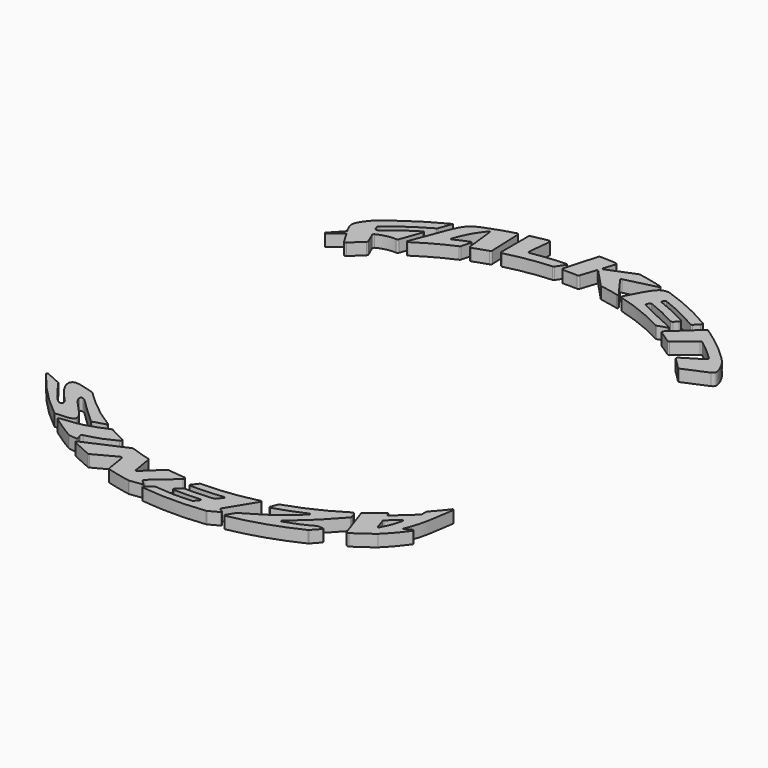
from build123d import *

# Parameters (mm, degrees)
F1_DEPTH = 2
F3_DEPTH = 2


with BuildPart() as f1:
    # F0 (on Top) → F1 (new body)
    with BuildSketch(Plane.XY):
        with BuildLine():
            ThreePointArc((26.5473532833, 28.3581093122), (27.4582275461, 27.4770826351), (28.3398792824, 26.5668133649))
            ThreePointArc((28.3398792824, 26.5668133649), (28.4973645244, 26.478335124), (28.6771044948, 26.4963224421))
            Line((28.6771044948, 26.4963224421), (32.5973681702, 28.1794866252))
            add(Edge.make_bspline(
                [(31.0981002601, 32.2813575249), (31.4402835186, 31.9296557978), (32.1412841128, 31.1525085066), (33.0599491094, 29.3843422979), (33.0908551063, 28.4427756858), (32.7474419474, 28.259593641), (32.5973681702, 28.1794866252)],
                knots=[0, 0, 0, 0, 0.2933334987, 0.6254018096, 0.836373223, 1, 1, 1, 1], degree=3))
            ThreePointArc((31.0981002601, 32.2813575249), (28.1003709599, 34.9220136211), (24.8794327818, 37.285274679))
            ThreePointArc((24.8794327818, 37.285274679), (24.6892487722, 37.3347941859), (24.5092220962, 37.2559745501))
            Line((24.5092220962, 37.2559745501), (20.4315910472, 33.4847358261))
            ThreePointArc((20.4315910472, 33.4847358261), (20.3366560562, 33.2358632202), (20.4771425834, 33.0095586418))
            ThreePointArc((20.4771425834, 33.0095586418), (21.4831145926, 32.3638705582), (22.4687431956, 31.6875355514))
            ThreePointArc((22.4687431956, 31.6875355514), (22.6516166213, 31.6324032792), (22.8307008064, 31.6988194812))
            Line((22.8307008064, 31.6988194812), (25.9636151124, 34.2277187511))
            ThreePointArc((25.9636151124, 34.2277187511), (26.1485411238, 34.2942601385), (26.3349718303, 34.2320590323))
            ThreePointArc((26.3349718303, 34.2320590323), (28.1139912099, 32.7867062259), (29.8138251931, 31.2490069322))
            ThreePointArc((29.8138251931, 31.2490069322), (29.9050576406, 31.0002583752), (29.7636019755, 30.7762282457))
            Line((29.7636019755, 30.7762282457), (26.5955120268, 28.8328390705))
            ThreePointArc((26.5955120268, 28.8328390705), (26.4539096733, 28.6073962566), (26.5473532833, 28.3581093122))
        make_face()
    extrude(amount=F1_DEPTH)


with BuildPart() as f1b:
    # F0 (on Top) → F1, piece 2 (new body)
    with BuildSketch(Plane.XY):
        with BuildLine():
            ThreePointArc((-27.762999829, 27.1691032352), (-26.841173481, 28.0801662437), (-25.8894667775, 28.9599696147))
            ThreePointArc((-25.8894667775, 28.9599696147), (-25.7963457415, 29.1194936551), (-25.8143270066, 29.3033308682))
            Line((-25.8143270066, 29.3033308682), (-26.5266235583, 30.9402086216))
            ThreePointArc((-26.5266235583, 30.9402086216), (-26.5330526202, 31.1635982641), (-26.3832601574, 31.3294490503))
            add(Edge.make_bspline(
                [(-26.3832601574, 31.3294490503), (-26.4676478673, 31.2882094997), (-27.4088107692, 30.8078679921), (-28.4535119643, 30.0345111798), (-29.4392433492, 29.230151902)],
                knots=[0.4868303234, 0.4868303234, 0.4868303234, 0.4868303234, 0.5150023749, 0.7976336827, 0.7976336827, 0.7976336827, 0.7976336827], degree=3))
            Line((-29.4392433492, 29.230151902), (-28.2345904921, 27.224463921))
            ThreePointArc((-28.2345904921, 27.224463921), (-28.0123900281, 27.0809755371), (-27.762999829, 27.1691032352))
        make_face()
        with BuildLine():
            add(Edge.make_bspline(
                [(-29.4392433492, 29.230151902), (-30.1450350456, 28.6542241108), (-30.8691416468, 28.0264647966), (-31.5932482481, 27.3987054825)],
                knots=[0.7976336827, 0.7976336827, 0.7976336827, 0.7976336827, 1, 1, 1, 1], degree=3))
            add(Edge.make_bspline(
                [(-26.3832601574, 31.3294490503), (-26.4676478673, 31.2882094997), (-27.4088107692, 30.8078679921), (-28.4535119643, 30.0345111798), (-29.4392433492, 29.230151902)],
                knots=[0.4868303234, 0.4868303234, 0.4868303234, 0.4868303234, 0.5150023749, 0.7976336827, 0.7976336827, 0.7976336827, 0.7976336827], degree=3))
            add(Edge.make_bspline(
                [(-23.3105841033, 31.9982774318), (-23.5789151686, 32.0125597614), (-24.3551664112, 32.0286347388), (-25.5353135479, 31.7438332917), (-26.3832601574, 31.3294490503)],
                knots=[0.0442724639, 0.0442724639, 0.0442724639, 0.0442724639, 0.2037512403, 0.4868303234, 0.4868303234, 0.4868303234, 0.4868303234], degree=3))
            ThreePointArc((-23.3105841033, 31.9982774318), (-23.1289712042, 32.0477448466), (-23.0125765803, 32.1956724024))
            Line((-23.0125765803, 32.1956724024), (-21.7377114938, 35.714832264))
            ThreePointArc((-21.7377114938, 35.714832264), (-21.7838786778, 35.8821158791), (-21.957016815, 35.8938803258))
            ThreePointArc((-21.957016815, 35.8938803258), (-24.4245842421, 34.2625293412), (-26.7714387963, 32.4618437097))
            ThreePointArc((-26.7714387963, 32.4618437097), (-27.0322725474, 32.4015604732), (-27.237396512, 32.5735851034))
            Line((-27.237396512, 32.5735851034), (-27.4501396738, 33.0624749456))
            ThreePointArc((-27.4501396738, 33.0624749456), (-27.4666646868, 33.2526381698), (-27.3651364457, 33.4142771013))
            ThreePointArc((-27.3651364457, 33.4142771013), (-24.3274711502, 35.6866747447), (-21.102120542, 37.6837513462))
            ThreePointArc((-21.102120542, 37.6837513462), (-21.0200082277, 37.7513373639), (-20.9666352899, 37.8433244906))
            Line((-20.9666352899, 37.8433244906), (-20.1757696644, 40.0264437827))
            ThreePointArc((-20.1757696644, 40.0264437827), (-24.7902532423, 37.3446278281), (-29.053267131, 34.1333495639))
            add(Edge.make_bspline(
                [(-30.0712297066, 30.2823782209), (-30.2768548387, 30.7288172116), (-30.688157594, 31.6183899209), (-30.0455886032, 32.9442767829), (-29.4035461755, 33.7388064708), (-29.053267131, 34.1333495639)],
                knots=[0, 0, 0, 0, 0.3285202685, 0.651688533, 1, 1, 1, 1], degree=3))
            Line((-30.0712297066, 30.2823782209), (-29.7531671484, 29.7528196461))
            Line((-29.7531671484, 29.7528196461), (-31.7605539053, 27.5997907218))
            Line((-31.7605539053, 27.5997907218), (-31.5932482481, 27.3987054825))
        make_face()
    extrude(amount=F1_DEPTH)


with BuildPart() as f1c:
    # F0 (on Top) → F1, piece 3 (new body)
    with BuildSketch(Plane.XY):
        with BuildLine():
            ThreePointArc((-21.5865439003, 32.2949756549), (-18.6685486267, 34.0650792203), (-15.6064456082, 35.5722249176))
            ThreePointArc((-15.6064456082, 35.5722249176), (-15.5002898392, 35.6504429099), (-15.4379271491, 35.7666237882))
            Line((-15.4379271491, 35.7666237882), (-14.9971107719, 37.3528948363))
            ThreePointArc((-14.9971107719, 37.3528948363), (-15.0417644948, 37.5049770004), (-15.1979301298, 37.5320922004))
            ThreePointArc((-15.1979301298, 37.5320922004), (-16.3880946707, 37.0279320938), (-17.5615618301, 36.4860429234))
            ThreePointArc((-17.5615618301, 36.4860429234), (-17.7276330046, 36.5103197847), (-17.76723247, 36.6734175569))
            add(Edge.make_bspline(
                [(-15.2460992726, 41.2827250047), (-15.7667577189, 40.5896449193), (-16.7893966623, 39.1712783413), (-17.4516215673, 37.5233885019), (-17.76723247, 36.6734175569)],
                knots=[0.0626606532, 0.0626606532, 0.0626606532, 0.0626606532, 0.4963820199, 0.9393072103, 0.9393072103, 0.9393072103, 0.9393072103], degree=3))
            ThreePointArc((-15.2460992726, 41.2827250047), (-15.0868407487, 41.3373833763), (-14.9771382222, 41.2096486093))
            Line((-14.9771382222, 41.2096486093), (-14.4358064161, 36.4689185691))
            ThreePointArc((-14.4358064161, 36.4689185691), (-14.2929591614, 36.2462280188), (-14.0293946427, 36.2232027307))
            ThreePointArc((-14.0293946427, 36.2232027307), (-12.850960216, 36.6578388839), (-11.6590899828, 37.0541489024))
            ThreePointArc((-11.6590899828, 37.0541489024), (-11.5039958375, 37.1673783267), (-11.449340035, 37.3514648273))
            Line((-11.449340035, 37.3514648273), (-11.655654036, 42.8998508429))
            ThreePointArc((-11.655654036, 42.8998508429), (-11.7784883571, 43.1309544954), (-12.0360021846, 43.1776856125))
            ThreePointArc((-12.0360021846, 43.1776856125), (-14.5852334842, 42.3845354775), (-17.0827228781, 41.4410239075))
            add(Edge.make_bspline(
                [(-21.8102313016, 32.4726648138), (-21.0902597427, 34.3796053295), (-19.8475733675, 37.684586252), (-18.6800928553, 40.5334365594), (-17.5710488372, 41.1866529421), (-17.0827228781, 41.4410239075)],
                knots=[0.0323151371, 0.0323151371, 0.0323151371, 0.0323151371, 0.4504457191, 0.7646007457, 1, 1, 1, 1], degree=3))
            ThreePointArc((-21.8102313016, 32.4726648138), (-21.7632001188, 32.3022297548), (-21.5865439003, 32.2949756549))
        make_face()
    extrude(amount=F1_DEPTH)


with BuildPart() as f1d:
    # F0 (on Top) → F1, piece 4 (new body)
    with BuildSketch(Plane.XY):
        with BuildLine():
            ThreePointArc((-9.9044199132, 37.5612406117), (-6.2199218275, 38.3439291488), (-2.4769397791, 38.766081817))
            ThreePointArc((-2.4769397791, 38.766081817), (-2.3484827904, 38.8042850269), (-2.2494785948, 38.8946113931))
            Line((-2.2494785948, 38.8946113931), (-1.3234436385, 40.2310948395))
            ThreePointArc((-1.3234436385, 40.2310948395), (-1.3151276965, 40.3884865258), (-1.4521181179, 40.4664283135))
            ThreePointArc((-1.4521181179, 40.4664283135), (-4.3071203503, 40.2627517908), (-7.1406019027, 39.8579009977))
            ThreePointArc((-7.1406019027, 39.8579009977), (-7.3978836029, 39.9335876065), (-7.4918388504, 40.184774285))
            Line((-7.4918388504, 40.184774285), (-7.1014831527, 43.8730523943))
            ThreePointArc((-7.1014831527, 43.8730523943), (-7.1943104201, 44.1231839038), (-7.4496766016, 44.2004547711))
            ThreePointArc((-7.4496766016, 44.2004547711), (-8.7527429974, 43.9609755745), (-10.0481624979, 43.6830895639))
            ThreePointArc((-10.0481624979, 43.6830895639), (-10.2156190858, 43.5775730162), (-10.2809115036, 43.3907245459))
            Line((-10.2809115036, 43.3907245459), (-10.2809115036, 37.8513251453))
            ThreePointArc((-10.2809115036, 37.8513251453), (-10.1640132825, 37.6136831066), (-9.9044199132, 37.5612406117))
        make_face()
    extrude(amount=F1_DEPTH)


with BuildPart() as f1e:
    # F0 (on Top) → F1, piece 5 (new body)
    with BuildSketch(Plane.XY):
        with BuildLine():
            ThreePointArc((-0.7466719061, 38.8379558058), (0.4319405097, 38.8427310768), (1.6101552765, 38.8117473208))
            ThreePointArc((1.6101552765, 38.8117473208), (1.7933872682, 38.8648552387), (1.9075520434, 39.0176976995))
            Line((1.9075520434, 39.0176976995), (2.7224591457, 41.4935777314))
            ThreePointArc((2.7224591457, 41.4935777314), (2.8325137414, 41.5931350452), (2.9743080644, 41.5493395805))
            Line((2.9743080644, 41.5493395805), (5.8710763414, 38.4632194255))
            ThreePointArc((5.8710763414, 38.4632194255), (5.9495201827, 38.4033594272), (6.0431415681, 38.3721874552))
            ThreePointArc((6.0431415681, 38.3721874552), (7.5782598652, 38.0987441726), (9.1011673251, 37.7639124487))
            ThreePointArc((9.1011673251, 37.7639124487), (9.2610647644, 37.8264511329), (9.2575170816, 37.99810687))
            Line((9.2575170816, 37.99810687), (6.8031192843, 41.3645047408))
            ThreePointArc((6.8031192843, 41.3645047408), (6.7833644462, 41.5041590108), (6.8882410918, 41.598469445))
            Line((6.8882410918, 41.598469445), (12.059064719, 42.8799921014))
            ThreePointArc((12.059064719, 42.8799921014), (12.1729644482, 43.0233714471), (12.0633500013, 43.1700529323))
            ThreePointArc((12.0633500013, 43.1700529323), (10.0065845529, 43.692632663), (7.9273903341, 44.1172796751))
            ThreePointArc((7.9273903341, 44.1172796751), (7.8432680386, 44.1203959204), (7.7615917149, 44.1000182434))
            Line((7.7615917149, 44.1000182434), (3.2363686489, 42.264897229))
            ThreePointArc((3.2363686489, 42.264897229), (3.0775600476, 42.2943278175), (3.0375170269, 42.4507979037))
            Line((3.0375170269, 42.4507979037), (3.6471266509, 44.3029357619))
            ThreePointArc((3.6471266509, 44.3029357619), (3.6116773532, 44.5632917178), (3.3848192112, 44.6958709765))
            ThreePointArc((3.3848192112, 44.6958709765), (2.0932189801, 44.774951901), (0.7998742226, 44.8167165761))
            ThreePointArc((0.7998742226, 44.8167165761), (0.6162164478, 44.7580267915), (0.5062076093, 44.5996831005))
            Line((0.5062076093, 44.5996831005), (-1.040751598, 39.2208191341))
            ThreePointArc((-1.040751598, 39.2208191341), (-0.9903548743, 38.9551552896), (-0.7466719061, 38.8379558058))
        make_face()
    extrude(amount=F1_DEPTH)


with BuildPart() as f1f:
    # F0 (on Top) → F1, piece 6 (new body)
    with BuildSketch(Plane.XY):
        with BuildLine():
            ThreePointArc((10.1970741592, 37.4828495275), (14.4310808982, 36.0650555832), (18.4744167343, 34.1707514761))
            ThreePointArc((18.4744167343, 34.1707514761), (18.589378803, 34.1359343277), (18.708784115, 34.1490065327))
            Line((18.708784115, 34.1490065327), (20.1387180891, 34.6080049841))
            ThreePointArc((20.1387180891, 34.6080049841), (20.242714678, 34.7439345887), (20.1516365662, 34.8888377477))
            add(Edge.make_bspline(
                [(20.1516365662, 34.8888377477), (18.9542126278, 35.3986889343), (16.8004637845, 36.4049548325), (14.7834996687, 37.383504279), (13.8984129971, 37.8670263978)],
                knots=[0.0488696267, 0.0488696267, 0.0488696267, 0.0488696267, 0.523945873, 0.9744418223, 0.9744418223, 0.9744418223, 0.9744418223], degree=3))
            ThreePointArc((13.8984129971, 37.8670263978), (13.814284528, 37.9695446818), (13.8248872297, 38.1017384055))
            Line((13.8248872297, 38.1017384055), (14.0431799453, 38.5383260572))
            ThreePointArc((14.0431799453, 38.5383260572), (14.137489648, 38.6242391204), (14.2650643086, 38.6245227159))
            add(Edge.make_bspline(
                [(19.3359186819, 36.2766117131), (18.502853332, 36.7304570332), (16.8430994677, 37.5972056296), (15.1220331412, 38.2959887351), (14.2650643086, 38.6245227159)],
                knots=[0.0363138868, 0.0363138868, 0.0363138868, 0.0363138868, 0.5039758893, 0.9726273638, 0.9726273638, 0.9726273638, 0.9726273638], degree=3))
            ThreePointArc((19.3359186819, 36.2766117131), (19.5203481762, 36.2428563097), (19.6887988116, 36.3251852173))
            Line((19.6887988116, 36.3251852173), (20.2554287601, 36.8772867232))
            ThreePointArc((20.2554287601, 36.8772867232), (20.3430107389, 37.134884243), (20.1863514541, 37.3573363809))
            add(Edge.make_bspline(
                [(20.1863514541, 37.3573363809), (19.2621332699, 37.8462531286), (17.473539024, 38.7807856196), (15.8376674941, 39.4392548711), (15.0455915624, 39.7541801145)],
                knots=[0.0608804493, 0.0608804493, 0.0608804493, 0.0608804493, 0.5248873881, 0.9634225516, 0.9634225516, 0.9634225516, 0.9634225516], degree=3))
            ThreePointArc((15.0455915624, 39.7541801145), (14.942591447, 39.8639423823), (14.9611861862, 40.0133111036))
            Line((14.9611861862, 40.0133111036), (15.1405068255, 40.297692314))
            ThreePointArc((15.1405068255, 40.297692314), (15.2342369659, 40.3712354285), (15.3533501524, 40.3687904945))
            ThreePointArc((15.3533501524, 40.3687904945), (18.6860272471, 38.9383742932), (21.8869477481, 37.2334006651))
            ThreePointArc((21.8869477481, 37.2334006651), (22.0774894426, 37.1945090108), (22.2518475321, 37.2806365599))
            Line((22.2518475321, 37.2806365599), (23.0033280079, 38.0373832637))
            ThreePointArc((23.0033280079, 38.0373832637), (23.088087199, 38.286403258), (22.9440177885, 38.5064920651))
            ThreePointArc((22.9440177885, 38.5064920651), (18.6257828144, 40.7707995751), (14.0871522904, 42.552673521))
            add(Edge.make_bspline(
                [(10.0085770498, 37.9086299551), (10.5478556391, 38.9660049187), (11.5040698788, 40.8137661903), (12.6146507969, 42.3476410039), (13.4983983359, 42.5508114295), (13.9056985036, 42.5688336221), (14.0871522904, 42.552673521)],
                knots=[0.0367311905, 0.0367311905, 0.0367311905, 0.0367311905, 0.3896962858, 0.66482844, 0.8470269389, 1, 1, 1, 1], degree=3))
            ThreePointArc((10.0085770498, 37.9086299551), (10.0015061174, 37.6508846253), (10.1970741592, 37.4828495275))
        make_face()
    extrude(amount=F1_DEPTH)


with BuildPart() as f3:
    # F2 (on Top) → F3 (new body)
    with BuildSketch(Plane.XY):
        with BuildLine():
            ThreePointArc((-20.1317080422, -32.5500890015), (-23.8315014501, -29.9475124398), (-27.1983898622, -26.9265956185))
            ThreePointArc((-27.1983898622, -26.9265956185), (-27.2568474324, -26.8806452454), (-27.3248105394, -26.8504833426))
            add(Edge.make_bspline(
                [(-27.3248105394, -26.8504833426), (-28.1274615826, -26.6079523765), (-29.5175025746, -26.1906597977), (-30.8653966207, -25.9954442551), (-31.4230696327, -26.5561917717), (-31.3021732535, -27.611952944), (-30.0144885381, -29.5849223983), (-28.6251044701, -30.8384018372), (-28.3123646067, -31.4279188361), (-28.3746261005, -31.8293795015), (-29.1460513462, -31.9433971905), (-30.8730050198, -29.707266778), (-31.9026936645, -28.2825113194), (-32.4140046741, -27.5740869206)],
                knots=[0.0036163809, 0.0036163809, 0.0036163809, 0.0036163809, 0.1228794116, 0.2110350793, 0.2721717201, 0.3480792723, 0.470188104, 0.5787089334, 0.6392988035, 0.6823618259, 0.7384896659, 0.867432935, 0.99605134, 0.99605134, 0.99605134, 0.99605134], degree=3))
            ThreePointArc((-32.4140046741, -27.5740869206), (-32.4677900414, -27.5170650147), (-32.5345107948, -27.4759225238))
            Line((-32.5345107948, -27.4759225238), (-35.094150829, -26.3281106981))
            ThreePointArc((-35.094150829, -26.3281106981), (-35.272770499, -26.3714174583), (-35.2753653543, -26.555193759))
            ThreePointArc((-35.2753653543, -26.555193759), (-31.6487060925, -30.7878079624), (-27.5176934589, -34.5297880555))
            ThreePointArc((-27.5176934589, -34.5297880555), (-27.4257519989, -34.5797280968), (-27.3222518349, -34.5950563656))
            add(Edge.make_bspline(
                [(-27.3222518349, -34.5950563656), (-26.6166561304, -34.5751196543), (-25.4093050129, -34.5261655196), (-24.3000294453, -34.2389796363), (-24.2483387254, -33.2353603941), (-25.883461408, -31.4386536129), (-27.5516915325, -29.7938915868), (-27.6339592507, -28.8589068797), (-26.8490060786, -28.93397863), (-25.6262552877, -30.3164001264), (-23.6042334522, -32.1746660791), (-22.3475015168, -33.3269873409)],
                knots=[0.0062321645, 0.0062321645, 0.0062321645, 0.0062321645, 0.1267045448, 0.2135413186, 0.2876724803, 0.4250648141, 0.5622004983, 0.6308527305, 0.6922157657, 0.8081230809, 0.9937967198, 0.9937967198, 0.9937967198, 0.9937967198], degree=3))
            ThreePointArc((-22.3475015168, -33.3269873409), (-22.2114535293, -33.3983601627), (-22.0579130737, -33.393025084))
            Line((-22.0579130737, -33.393025084), (-20.167188868, -32.821239045))
            ThreePointArc((-20.167188868, -32.821239045), (-20.0618771734, -32.6971229976), (-20.1317080422, -32.5500890015))
        make_face()
    extrude(amount=F3_DEPTH)


with BuildPart() as f3b:
    # F2 (on Top) → F3, piece 2 (new body)
    with BuildSketch(Plane.XY):
        with BuildLine():
            ThreePointArc((4.0495048595, -40.4787311143), (1.6355107135, -40.6478937577), (-0.7842707143, -40.6732231533))
            ThreePointArc((-0.7842707143, -40.6732231533), (-0.9041976355, -40.6957303759), (-1.0052413932, -40.7641350578))
            Line((-1.0052413932, -40.7641350578), (-1.7654800977, -41.5467582104))
            ThreePointArc((-1.7654800977, -41.5467582104), (-1.7971828418, -41.7069209871), (-1.6638524292, -41.8011556948))
            ThreePointArc((-1.6638524292, -41.8011556948), (0.5697551726, -41.8303765387), (2.8017383024, -41.7403316328))
            ThreePointArc((2.8017383024, -41.7403316328), (2.9451414818, -41.8213230061), (2.92778048, -41.9850992866))
            Line((2.92778048, -41.9850992866), (2.3699734083, -42.665441637))
            ThreePointArc((2.3699734083, -42.665441637), (2.2746108579, -42.7423136946), (2.1564715699, -42.7746623864))
            add(Edge.make_bspline(
                [(-3.9314589642, -42.6323771121), (-2.7773341671, -42.7399950959), (-0.6027029912, -42.937849969), (1.2756850245, -42.8290539997), (2.1564715699, -42.7746623864)],
                knots=[0.0175194143, 0.0175194143, 0.0175194143, 0.0175194143, 0.5258714905, 0.9776708469, 0.9776708469, 0.9776708469, 0.9776708469], degree=3))
            ThreePointArc((-3.9314589642, -42.6323771121), (-4.0442676859, -42.6433617695), (-4.1449499635, -42.6954151016))
            Line((-4.1449499635, -42.6954151016), (-5.2682261382, -43.5802370209))
            ThreePointArc((-5.2682261382, -43.5802370209), (-5.3197848284, -43.7387530031), (-5.1930492235, -43.8470290467))
            ThreePointArc((-5.1930492235, -43.8470290467), (0.1167790405, -44.1533246666), (5.4249128156, -43.818946101))
            ThreePointArc((5.4249128156, -43.818946101), (5.4797594413, -43.8068586983), (5.5313920153, -43.7847603962))
            Line((5.5313920153, -43.7847603962), (7.134978594, -42.9125784943))
            ThreePointArc((7.134978594, -42.9125784943), (7.2132597782, -42.7846603465), (7.1416504478, -42.6528912296))
            Line((7.1416504478, -42.6528912296), (6.68216154, -42.3714820498))
            ThreePointArc((6.68216154, -42.3714820498), (6.5471513464, -42.1857590651), (6.5830107049, -41.9589664599))
            Line((6.5830107049, -41.9589664599), (9.3956075653, -37.3665183368))
            ThreePointArc((9.3956075653, -37.3665183368), (9.3886788072, -37.1995095631), (9.2315103603, -37.1426059824))
            ThreePointArc((9.2315103603, -37.1426059824), (4.7222558785, -37.9801824919), (0.1451882899, -38.272351418))
            ThreePointArc((0.1451882899, -38.272351418), (0.0144567635, -38.302886066), (-0.0898670043, -38.3873825051))
            Line((-0.0898670043, -38.3873825051), (-0.8184391676, -39.3177329493))
            ThreePointArc((-0.8184391676, -39.3177329493), (-0.8357770954, -39.474694757), (-0.7030076578, -39.5601926474))
            ThreePointArc((-0.7030076578, -39.5601926474), (2.0624929622, -39.5126458852), (4.8179146523, -39.2720098858))
            ThreePointArc((4.8179146523, -39.2720098858), (4.9675967354, -39.3485777655), (4.9521761346, -39.5159981086))
            Line((4.9521761346, -39.5159981086), (4.2516344811, -40.3704300069))
            ThreePointArc((4.2516344811, -40.3704300069), (4.1613259216, -40.444655674), (4.0495048595, -40.4787311143))
        make_face()
    extrude(amount=F3_DEPTH)


with BuildPart() as f3c:
    # F2 (on Top) → F3, piece 3 (new body)
    with BuildSketch(Plane.XY):
        with BuildLine():
            ThreePointArc((30.3497449688, -23.3170955101), (29.2904635618, -24.6345835572), (28.1740356838, -25.9040088787))
            ThreePointArc((28.1740356838, -25.9040088787), (28.1447013418, -25.9510499814), (28.1344567786, -26.0055331705))
            Line((28.1344567786, -26.0055331705), (28.1344567786, -26.9587527846))
            ThreePointArc((28.1344567786, -26.9587527846), (28.1216405539, -27.0194208306), (28.0853819546, -27.0697217391))
            Line((28.0853819546, -27.0697217391), (24.9633754066, -29.9091560793))
            ThreePointArc((24.9633754066, -29.9091560793), (24.8237489144, -29.9431085108), (24.719638749, -29.8440661038))
            Line((24.719638749, -29.8440661038), (24.6294399766, -29.5632965531))
            ThreePointArc((24.6294399766, -29.5632965531), (24.5287279141, -29.4652045666), (24.3910339305, -29.493582802))
            ThreePointArc((24.3910339305, -29.493582802), (23.1502575897, -30.4771969878), (21.8698591416, -31.4086488698))
            ThreePointArc((21.8698591416, -31.4086488698), (21.7560946054, -31.5617550549), (21.7576230597, -31.7524945039))
            Line((21.7576230597, -31.7524945039), (23.5358951901, -36.9182447611))
            ThreePointArc((23.5358951901, -36.9182447611), (23.7216274247, -37.1041616438), (23.9825068723, -37.0724841436))
            ThreePointArc((23.9825068723, -37.0724841436), (25.5707786989, -35.9953468269), (27.1107450873, -34.850211151))
            add(Edge.make_bspline(
                [(30.1271428147, -31.3375281179), (29.7500097738, -31.8595724417), (28.8354949028, -33.0765628693), (27.7539307631, -34.2165783638), (27.1107450873, -34.850211151)],
                knots=[0.1227823541, 0.1227823541, 0.1227823541, 0.1227823541, 0.4945575154, 1, 1, 1, 1], degree=3))
            ThreePointArc((30.1271428147, -31.3375281179), (30.1186661199, -31.1511740032), (29.9352411974, -31.1171885919))
            Line((29.9352411974, -31.1171885919), (28.7343853812, -31.7544184144))
            add(Edge.make_bspline(
                [(30.6173644716, -23.4284023054), (30.3632644616, -25.3247361947), (29.8855165429, -28.7092428509), (29.0916812787, -30.8092989023), (28.7343853812, -31.7544184144)],
                knots=[0.0517052209, 0.0517052209, 0.0517052209, 0.0517052209, 0.5732144209, 1, 1, 1, 1], degree=3))
            ThreePointArc((30.6173644716, -23.4284023054), (30.5262967288, -23.2699825397), (30.3497449688, -23.3170955101))
        make_face()
        with BuildLine():
            ThreePointArc((25.2749643047, -31.5726761797), (25.2728599327, -31.4573177475), (25.3348260924, -31.3599925642))
            Line((25.3348260924, -31.3599925642), (27.1119856556, -29.8286618145))
            ThreePointArc((27.1119856556, -29.8286618145), (27.2866738103, -29.8134316486), (27.3564459797, -29.9743035036))
            add(Edge.make_bspline(
                [(27.3564459797, -29.9743035036), (27.2445724286, -30.4865052138), (26.9833207848, -31.5587184579), (26.420278991, -32.6893789885), (26.0998609371, -33.3050485238)],
                knots=[0.1049811398, 0.1049811398, 0.1049811398, 0.1049811398, 0.4792778537, 0.9235804944, 0.9235804944, 0.9235804944, 0.9235804944], degree=3))
            ThreePointArc((26.0998609371, -33.3050485238), (25.9541406705, -33.3852643579), (25.8239908188, -33.2816786818))
            Line((25.8239908188, -33.2816786818), (25.2749643047, -31.5726761797))
        make_face(mode=Mode.SUBTRACT)
    extrude(amount=F3_DEPTH)


with BuildPart() as f3d:
    # F2 (on Top) → F3, piece 4 (new body)
    with BuildSketch(Plane.XY):
        with BuildLine():
            ThreePointArc((20.6616478368, -32.2163044338), (16.3906110661, -34.5852834538), (11.852657144, -36.3910494672))
            ThreePointArc((11.852657144, -36.3910494672), (11.7385840155, -36.4591390257), (11.6650993947, -36.5698136711))
            Line((11.6650993947, -36.5698136711), (11.2408473539, -37.6872055522))
            ThreePointArc((11.2408473539, -37.6872055522), (11.2713912995, -37.8427644835), (11.4244524444, -37.8840415916))
            ThreePointArc((11.4244524444, -37.8840415916), (13.9680563294, -37.0204830705), (16.4472043894, -35.9863269221))
            ThreePointArc((16.4472043894, -35.9863269221), (16.6319649239, -36.0359412507), (16.6177197565, -36.2267162803))
            add(Edge.make_bspline(
                [(8.9756469316, -41.7689782608), (10.3005505215, -41.012361274), (12.9333368731, -39.5164137372), (15.9667827034, -36.8931915628), (16.5934899054, -36.2519036897), (16.6177197565, -36.2267162803)],
                knots=[0.0070095737, 0.0070095737, 0.0070095737, 0.0070095737, 0.4227073661, 0.831986091, 0.8494191129, 0.8494191129, 0.8494191129, 0.8494191129], degree=3))
            ThreePointArc((8.9756469316, -41.7689782608), (8.9154340947, -41.8142577492), (8.868400805, -41.8731108499))
            Line((8.868400805, -41.8731108499), (8.0874999779, -43.1515633568))
            ThreePointArc((8.0874999779, -43.1515633568), (8.0921449489, -43.3150840814), (8.2435141909, -43.3771159742))
            ThreePointArc((8.2435141909, -43.3771159742), (13.8720933847, -41.9177139356), (19.2600884062, -39.7313316042))
            ThreePointArc((19.2600884062, -39.7313316042), (19.3091753098, -39.701415881), (19.3516551287, -39.6626868274))
            Line((19.3516551287, -39.6626868274), (20.545708853, -38.3433608643))
            ThreePointArc((20.545708853, -38.3433608643), (20.5716041016, -38.1818712342), (20.4344943339, -38.0927063525))
            Line((20.4344943339, -38.0927063525), (19.5573609087, -38.0927063525))
            ThreePointArc((19.5573609087, -38.0927063525), (19.4818447858, -38.1023663532), (19.4111919015, -38.1307242513))
            add(Edge.make_bspline(
                [(15.0819049966, -40.0028661908), (15.9019293444, -39.7331865648), (17.5469858863, -39.1646915875), (18.7800361564, -38.4828681886), (19.4111919015, -38.1307242513)],
                knots=[0.1231565508, 0.1231565508, 0.1231565508, 0.1231565508, 0.5407379015, 0.9840477078, 0.9840477078, 0.9840477078, 0.9840477078], degree=3))
            add(Edge.make_bspline(
                [(14.3525190651, -40.2404181659), (14.5962878443, -40.1614102529), (14.8400566235, -40.0824023399), (15.0819049966, -40.0028661908)],
                knots=[0, 0, 0, 0, 0.1231565508, 0.1231565508, 0.1231565508, 0.1231565508], degree=3))
            add(Edge.make_bspline(
                [(14.9381678856, -39.7458530407), (14.7431866048, -39.910792398), (14.5478420164, -40.0755951186), (14.3525190651, -40.2404181659)],
                knots=[0.9279452083, 0.9279452083, 0.9279452083, 0.9279452083, 1, 1, 1, 1], degree=3))
            add(Edge.make_bspline(
                [(21.3589294465, -33.4788988752), (20.3988161324, -34.5647608364), (18.4604098531, -36.7335676656), (16.12476097, -38.7420853968), (14.9381678856, -39.7458530407)],
                knots=[0.0549129673, 0.0549129673, 0.0549129673, 0.0549129673, 0.4894430237, 0.9279452083, 0.9279452083, 0.9279452083, 0.9279452083], degree=3))
            ThreePointArc((21.3589294465, -33.4788988752), (21.429378804, -33.3336565395), (21.4143578276, -33.1729306289))
            Line((21.4143578276, -33.1729306289), (21.1037784433, -32.3615828119))
            ThreePointArc((21.1037784433, -32.3615828119), (20.9172541685, -32.1838237415), (20.6616478368, -32.2163044338))
        make_face()
        with BuildLine():
            ThreePointArc((15.0819049966, -40.0028661908), (14.90412669, -39.933590677), (14.9381678856, -39.7458530407))
            add(Edge.make_bspline(
                [(14.9381678856, -39.7458530407), (14.7431866048, -39.910792398), (14.5478420164, -40.0755951186), (14.3525190651, -40.2404181659)],
                knots=[0.9279452083, 0.9279452083, 0.9279452083, 0.9279452083, 1, 1, 1, 1], degree=3))
            add(Edge.make_bspline(
                [(14.3525190651, -40.2404181659), (14.5962878443, -40.1614102529), (14.8400566235, -40.0824023399), (15.0819049966, -40.0028661908)],
                knots=[0, 0, 0, 0, 0.1231565508, 0.1231565508, 0.1231565508, 0.1231565508], degree=3))
        make_face()
    extrude(amount=F3_DEPTH)


with BuildPart() as f3e:
    # F2 (on Top) → F3, piece 5 (new body)
    with BuildSketch(Plane.XY):
        with BuildLine():
            ThreePointArc((-2.7730580116, -38.1720331128), (-4.1903746494, -38.0425383354), (-5.6018967278, -37.8604373423))
            ThreePointArc((-5.6018967278, -37.8604373423), (-5.7359357548, -37.8710650957), (-5.851869547, -37.9391735807))
            Line((-5.851869547, -37.9391735807), (-8.7451273507, -40.6735853836))
            ThreePointArc((-8.7451273507, -40.6735853836), (-8.8956146014, -40.7068641656), (-8.996001123, -40.5899178693))
            Line((-8.996001123, -40.5899178693), (-9.5705847761, -37.2387679607))
            ThreePointArc((-9.5705847761, -37.2387679607), (-9.64492623, -37.0869640221), (-9.7895346995, -36.9994455778))
            ThreePointArc((-9.7895346995, -36.9994455778), (-11.427578862, -36.5267628466), (-13.0429470691, -35.9815993871))
            ThreePointArc((-13.0429470691, -35.9815993871), (-13.1552705997, -35.9638107743), (-13.2661447157, -35.9891078233))
            Line((-13.2661447157, -35.9891078233), (-20.1400433989, -39.0177753593))
            ThreePointArc((-20.1400433989, -39.0177753593), (-20.2294982388, -39.1506296975), (-20.1480107925, -39.2885145757))
            ThreePointArc((-20.1480107925, -39.2885145757), (-18.5145462087, -40.0841776159), (-16.8497295424, -40.8119630844))
            ThreePointArc((-16.8497295424, -40.8119630844), (-16.720212204, -40.8342901069), (-16.593579911, -40.7991119993))
            Line((-16.593579911, -40.7991119993), (-12.9964169969, -38.8720949109))
            ThreePointArc((-12.9964169969, -38.8720949109), (-12.7211123137, -38.867950513), (-12.558377019, -39.0900474928))
            Line((-12.558377019, -39.0900474928), (-12.0557875201, -42.2939049112))
            ThreePointArc((-12.0557875201, -42.2939049112), (-11.9834713755, -42.4469052913), (-11.8398576917, -42.5364254057))
            ThreePointArc((-11.8398576917, -42.5364254057), (-9.8828900829, -43.0332220507), (-7.9052570341, -43.440034849))
            ThreePointArc((-7.9052570341, -43.440034849), (-7.8565466082, -43.4448406349), (-7.807703037, -43.441661527))
            Line((-7.807703037, -43.441661527), (-5.9471560366, -43.1668111716))
            ThreePointArc((-5.9471560366, -43.1668111716), (-5.8263239444, -43.0644821073), (-5.8645608034, -42.910828033))
            Line((-5.8645608034, -42.910828033), (-6.3706602981, -42.4192039061))
            ThreePointArc((-6.3706602981, -42.4192039061), (-6.461520071, -42.1959719247), (-6.3588227569, -41.9779323009))
            Line((-6.3588227569, -41.9779323009), (-2.5975998287, -38.6973291313))
            ThreePointArc((-2.5975998287, -38.6973291313), (-2.5102481151, -38.3762010292), (-2.7730580116, -38.1720331128))
        make_face()
    extrude(amount=F3_DEPTH)


with BuildPart() as f3f:
    # F2 (on Top) → F3, piece 6 (new body)
    with BuildSketch(Plane.XY):
        with BuildLine():
            ThreePointArc((-15.869721745, -34.8273727754), (-17.1947404299, -34.1926141769), (-18.4944200929, -33.5074676472))
            ThreePointArc((-18.4944200929, -33.5074676472), (-18.6240627207, -33.4705076726), (-18.7568000292, -33.4940461007))
            add(Edge.make_bspline(
                [(-26.0213339352, -35.3450694677), (-24.79225933, -35.2399783603), (-22.2576104451, -34.9572539668), (-19.9431722844, -33.9986055471), (-18.7568000292, -33.4940461007)],
                knots=[0.0488512644, 0.0488512644, 0.0488512644, 0.0488512644, 0.5024756111, 0.981851242, 0.981851242, 0.981851242, 0.981851242], degree=3))
            ThreePointArc((-26.0213339352, -35.3450694677), (-26.1529781914, -35.4540035171), (-26.0972134434, -35.6155186252))
            ThreePointArc((-26.0972134434, -35.6155186252), (-24.1189595044, -36.9838547056), (-22.0691250948, -38.2424297608))
            Line((-22.0691250948, -38.2424297608), (-20.7504456744, -38.417419612))
            ThreePointArc((-20.7504456744, -38.417419612), (-20.6142397184, -38.3632421882), (-20.5892649866, -38.2188000943))
            Line((-20.5892649866, -38.2188000943), (-20.8322277542, -37.5304059341))
            ThreePointArc((-20.8322277542, -37.5304059341), (-20.81399328, -37.2893022776), (-20.6238355352, -37.1399587096))
            add(Edge.make_bspline(
                [(-15.8591033865, -35.3682690757), (-16.6131679074, -35.7482911588), (-18.1819358454, -36.5293653655), (-19.789235894, -36.9259824918), (-20.6238355352, -37.1399587096)],
                knots=[0.101868745, 0.101868745, 0.101868745, 0.101868745, 0.509179942, 0.9448272653, 0.9448272653, 0.9448272653, 0.9448272653], degree=3))
            ThreePointArc((-15.8591033865, -35.3682690757), (-15.694174355, -35.0944789719), (-15.869721745, -34.8273727754))
        make_face()
    extrude(amount=F3_DEPTH)


solid = Compound([f1.part, f1b.part, f1c.part, f1d.part, f1e.part, f1f.part, f3.part, f3b.part, f3c.part, f3d.part, f3e.part, f3f.part])
